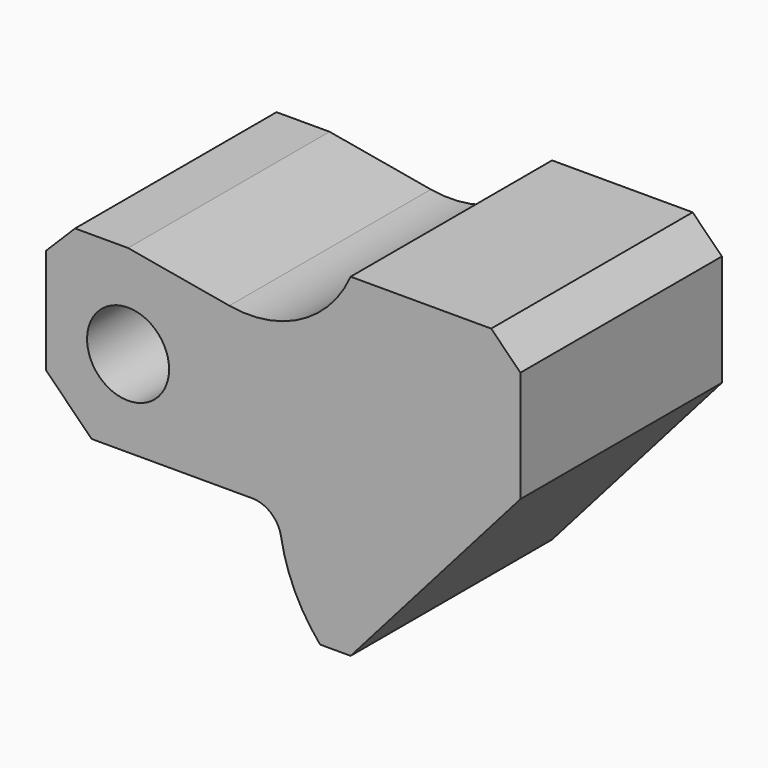
from build123d import *

# Parameters (mm, degrees)
F0_R     = 7
F1_DEPTH = 43


with BuildPart() as f1:
    # F0 (on Front) → F1 (new body)
    with BuildSketch(Plane.XZ):
        with BuildLine():
            Line((-14, 11), (-14, 0))
            Line((-14, 0), (-14, -7))
            Line((-14, -7), (-6.221825, -14.778175))
            Line((-6.221825, -14.778175), (21.191557, -14.778175))
            ThreePointArc((21.191557, -14.778175), (24.412686, -15.953998), (26.118823, -18.928443))
            ThreePointArc((26.118823, -18.928443), (28.491289, -26.420238), (32.788067, -33))
            Line((32.788067, -33), (38, -33))
            Line((38, -33), (67, 0))
            Line((67, 0), (67, 19))
            Line((67, 19), (62, 24))
            Line((62, 24), (38, 24))
            ThreePointArc((38, 24), (29.567336, 14.865867), (17.292149, 12.900675))
            Line((17.292149, 12.900675), (0, 15.949747))
            Line((0, 15.949747), (-9.050253, 15.949747))
            Line((-9.050253, 15.949747), (-14, 11))
        make_face()
        Circle(F0_R, mode=Mode.SUBTRACT)
    extrude(amount=F1_DEPTH)


solid = f1.part
